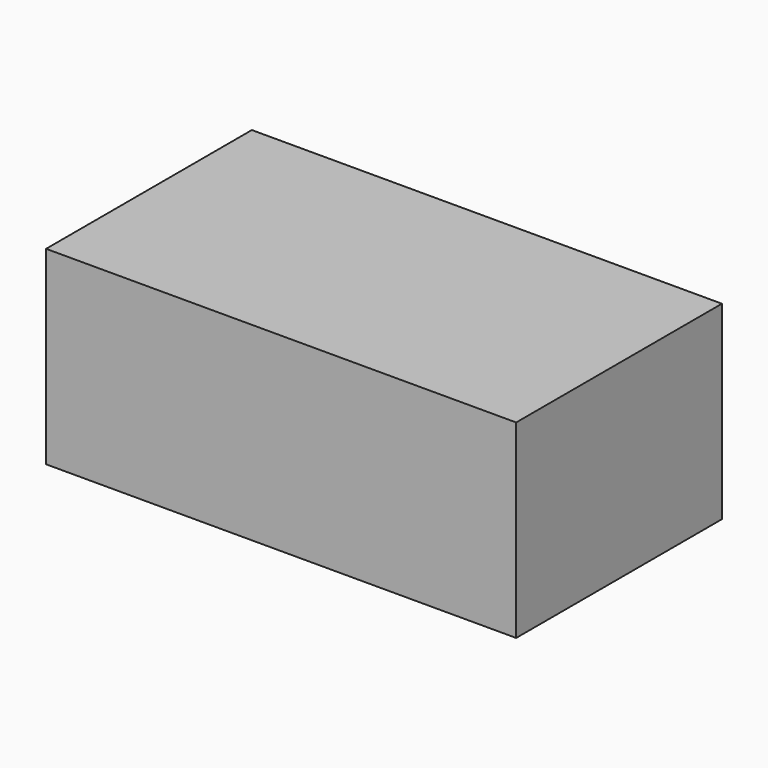
from build123d import *

# Parameters (mm, degrees)
SKETCH007_W   = 44.6
SKETCH007_H   = 24.4
SKETCH007_W_2 = 40.6
SKETCH007_H_2 = 20.4
PAD006_DEPTH  = 18
BOX001_W      = 44.6
BOX001_H      = 24.2
BOX001_DEPTH  = 2
BOX002_W      = 40.6
BOX002_H      = 3
BOX002_DEPTH  = 8


with BuildPart() as part:
    # Sketch007 → Pad006 (new body)
    with BuildSketch(Plane.XY):
        with Locations((20.3, 10.2)):
            Rectangle(SKETCH007_W, SKETCH007_H)
        with Locations((20.3, 10.2)):
            Rectangle(SKETCH007_W_2, SKETCH007_H_2, mode=Mode.SUBTRACT)
    extrude(amount=-PAD006_DEPTH)

    # Box001 → Box001 (join)
    with BuildSketch(Plane(origin=(-2, -2, -2), x_dir=(1, 0, 0), z_dir=(0, 0, 1))):
        with Locations((22.3, 12.1)):
            Rectangle(BOX001_W, BOX001_H)
    extrude(amount=BOX001_DEPTH)

    # Box002 → Box002 (cut)
    with BuildSketch(Plane(origin=(0, 20, -18), x_dir=(1, 0, 0), z_dir=(0, 0, 1))):
        with Locations((20.3, 1.5)):
            Rectangle(BOX002_W, BOX002_H)
    extrude(amount=BOX002_DEPTH, mode=Mode.SUBTRACT)


solid = part.part
